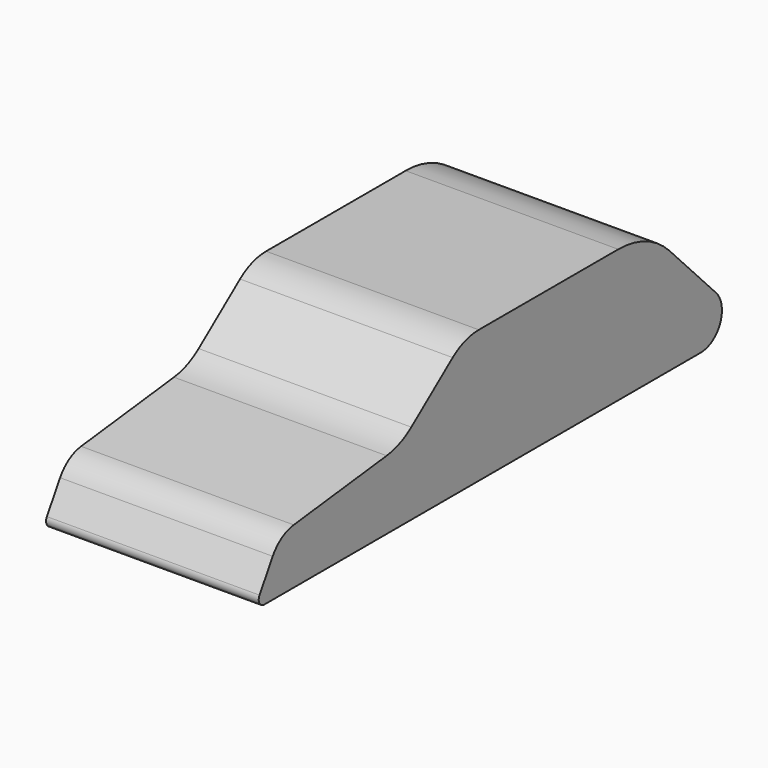
from build123d import *

# Parameters (mm, degrees)
F2_DEPTH = 3048


with BuildPart() as f2:
    # F1 (on Right) → F2 (new body)
    with BuildSketch(Plane.YZ):
        with BuildLine():
            ThreePointArc((92.323661, 153.872769), (91.032632, 51.5418), (179.444943, 0))
            Line((179.444943, 0), (7996.090989, 0))
            ThreePointArc((7996.090989, 0), (8346.583224, 231.613944), (8270.939559, 644.854627))
            Line((8270.939559, 644.854627), (7436.065195, 1514.515422))
            ThreePointArc((7436.065195, 1514.515422), (7017.856816, 1803.307448), (6519.903297, 1905))
            Line((6519.903297, 1905), (4020.648106, 1905))
            ThreePointArc((4020.648106, 1905), (3773.35135, 1863.755378), (3552.825358, 1744.48639))
            Line((3552.825358, 1744.48639), (2811.897635, 1168.209272))
            ThreePointArc((2811.897635, 1168.209272), (2603.331997, 1047.387275), (2369.976299, 987.032506))
            Line((2369.976299, 987.032506), (705.052527, 791.159121))
            ThreePointArc((705.052527, 791.159121), (488.675988, 713.295295), (328.801475, 548.002458))
            Line((328.801475, 548.002458), (92.323661, 153.872769))
        make_face()
    extrude(amount=F2_DEPTH)


solid = f2.part
